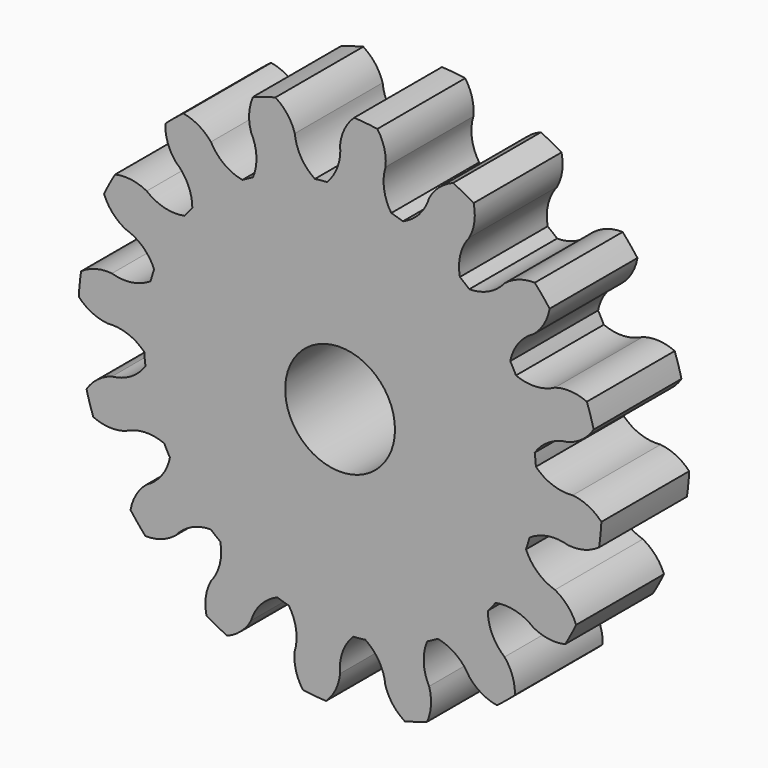
from build123d import *

# Parameters (mm, degrees)
F1_DEPTH = 6
F2_R     = 3
F3_DEPTH = 6.001


with BuildPart() as f1:
    # F0 (on Front) → F1 (new body)
    with BuildSketch(Plane.XZ):
        with BuildLine():
            ThreePointArc((2.48542, 12.466661), (2.414328, 13.351159), (2.038464, 14.154973))
            ThreePointArc((2.038464, 14.154973), (1.404844, 14.231831), (0.768425, 14.28034))
            ThreePointArc((0.768425, 14.28034), (0.242655, 13.565528), (0, 12.712))
            ThreePointArc((0, 12.712), (-0.13352, 11.62638), (-0.718152, 10.701931))
            ThreePointArc((-0.718152, 10.701931), (1.053657, 10.674122), (2.796709, 10.354974))
            ThreePointArc((2.796709, 10.354974), (2.404106, 11.375887), (2.48542, 12.466661))
        make_face()
        with BuildLine():
            ThreePointArc((3.431965, 10.16212), (3.11583, 10.263463), (2.796709, 10.354974))
            ThreePointArc((2.796709, 10.354974), (1.053657, 10.674122), (-0.718152, 10.701931))
            ThreePointArc((-0.718152, 10.701931), (-1.049006, 10.67458), (-1.378855, 10.637003))
            ThreePointArc((-1.378855, 10.637003), (-3.111357, 10.26482), (-4.758938, 9.61247))
            ThreePointArc((-4.758938, 9.61247), (-5.05414, 9.460589), (-5.344501, 9.299644))
            ThreePointArc((-5.344501, 9.299644), (-6.802696, 8.292792), (-8.075219, 7.059598))
            ThreePointArc((-8.075219, 7.059598), (-8.289827, 6.806309), (-8.496495, 6.546499))
            ThreePointArc((-8.496495, 6.546499), (-9.458386, 5.058262), (-10.16212, 3.431965))
            ThreePointArc((-10.16212, 3.431965), (-10.263463, 3.11583), (-10.354974, 2.796709))
            ThreePointArc((-10.354974, 2.796709), (-10.674122, 1.053657), (-10.701931, -0.718152))
            ThreePointArc((-10.701931, -0.718152), (-10.67458, -1.049006), (-10.637003, -1.378855))
            ThreePointArc((-10.637003, -1.378855), (-10.26482, -3.111357), (-9.61247, -4.758938))
            ThreePointArc((-9.61247, -4.758938), (-9.460589, -5.05414), (-9.299644, -5.344501))
            ThreePointArc((-9.299644, -5.344501), (-8.292792, -6.802696), (-7.059598, -8.075219))
            ThreePointArc((-7.059598, -8.075219), (-6.806309, -8.289827), (-6.546499, -8.496495))
            ThreePointArc((-6.546499, -8.496495), (-5.058262, -9.458386), (-3.431965, -10.16212))
            ThreePointArc((-3.431965, -10.16212), (-3.11583, -10.263463), (-2.796709, -10.354974))
            ThreePointArc((-2.796709, -10.354974), (-1.053657, -10.674122), (0.718152, -10.701931))
            ThreePointArc((0.718152, -10.701931), (1.049006, -10.67458), (1.378855, -10.637003))
            ThreePointArc((1.378855, -10.637003), (3.111357, -10.26482), (4.758938, -9.61247))
            ThreePointArc((4.758938, -9.61247), (5.05414, -9.460589), (5.344501, -9.299644))
            ThreePointArc((5.344501, -9.299644), (6.802696, -8.292792), (8.075219, -7.059598))
            ThreePointArc((8.075219, -7.059598), (8.289827, -6.806309), (8.496495, -6.546499))
            ThreePointArc((8.496495, -6.546499), (9.458386, -5.058262), (10.16212, -3.431965))
            ThreePointArc((10.16212, -3.431965), (10.263463, -3.11583), (10.354974, -2.796709))
            ThreePointArc((10.354974, -2.796709), (10.632839, -1.410606), (10.726, 0))
            ThreePointArc((10.726, 0), (10.719981, 0.359278), (10.701931, 0.718152))
            ThreePointArc((10.701931, 0.718152), (10.67458, 1.049006), (10.637003, 1.378855))
            ThreePointArc((10.637003, 1.378855), (10.26482, 3.111357), (9.61247, 4.758938))
            ThreePointArc((9.61247, 4.758938), (9.460589, 5.05414), (9.299644, 5.344501))
            ThreePointArc((9.299644, 5.344501), (8.292792, 6.802696), (7.059598, 8.075219))
            ThreePointArc((7.059598, 8.075219), (6.806309, 8.289827), (6.546499, 8.496495))
            ThreePointArc((6.546499, 8.496495), (5.058262, 9.458386), (3.431965, 10.16212))
        make_face()
        with BuildLine():
            ThreePointArc((4.864672, 11.744357), (4.325866, 10.79247), (3.431965, 10.16212))
            ThreePointArc((3.431965, 10.16212), (5.058262, 9.458386), (6.546499, 8.496495))
            ThreePointArc((6.546499, 8.496495), (6.574468, 9.589938), (7.067014, 10.566563))
            ThreePointArc((7.067014, 10.566563), (7.339816, 11.410939), (7.300169, 12.297404))
            ThreePointArc((7.300169, 12.297404), (6.744192, 12.610887), (6.174782, 12.899251))
            ThreePointArc((6.174782, 12.899251), (5.415487, 12.440054), (4.864672, 11.744357))
        make_face()
        with BuildLine():
            ThreePointArc((-4.758938, 9.61247), (-3.111357, 10.26482), (-1.378855, 10.637003))
            ThreePointArc((-1.378855, 10.637003), (-2.132259, 11.429961), (-2.474555, 12.468822))
            ThreePointArc((-2.474555, 12.468822), (-2.878719, 13.258786), (-3.533579, 13.857576))
            ThreePointArc((-3.533579, 13.857576), (-4.14838, 13.686108), (-4.754917, 13.487378))
            ThreePointArc((-4.754917, 13.487378), (-4.967119, 12.625774), (-4.864672, 11.744357))
            ThreePointArc((-4.864672, 11.744357), (-4.57258, 10.690278), (-4.758938, 9.61247))
        make_face()
        with BuildLine():
            ThreePointArc((8.988741, 8.988741), (8.126679, 8.315505), (7.059598, 8.075219))
            ThreePointArc((7.059598, 8.075219), (8.292792, 6.802696), (9.299644, 5.344501))
            ThreePointArc((9.299644, 5.344501), (9.743926, 6.344007), (10.572718, 7.057803))
            ThreePointArc((10.572718, 7.057803), (11.147883, 7.733507), (11.450489, 8.567666))
            ThreePointArc((11.450489, 8.567666), (11.056799, 9.07005), (10.641084, 9.554367))
            ThreePointArc((10.641084, 9.554367), (9.76386, 9.420694), (8.988741, 8.988741))
        make_face()
        with BuildLine():
            ThreePointArc((-8.075219, 7.059598), (-6.802696, 8.292792), (-5.344501, 9.299644))
            ThreePointArc((-5.344501, 9.299644), (-6.344007, 9.743926), (-7.057803, 10.572718))
            ThreePointArc((-7.057803, 10.572718), (-7.733507, 11.147883), (-8.567666, 11.450489))
            ThreePointArc((-8.567666, 11.450489), (-9.07005, 11.056799), (-9.554367, 10.641084))
            ThreePointArc((-9.554367, 10.641084), (-9.420694, 9.76386), (-8.988741, 8.988741))
            ThreePointArc((-8.988741, 8.988741), (-8.315505, 8.126679), (-8.075219, 7.059598))
        make_face()
        with BuildLine():
            ThreePointArc((11.744357, 4.864672), (10.690278, 4.57258), (9.61247, 4.758938))
            ThreePointArc((9.61247, 4.758938), (10.26482, 3.111357), (10.637003, 1.378855))
            ThreePointArc((10.637003, 1.378855), (11.429961, 2.132259), (12.468822, 2.474555))
            ThreePointArc((12.468822, 2.474555), (13.258786, 2.878719), (13.857576, 3.533579))
            ThreePointArc((13.857576, 3.533579), (13.686108, 4.14838), (13.487378, 4.754917))
            ThreePointArc((13.487378, 4.754917), (12.625774, 4.967119), (11.744357, 4.864672))
        make_face()
        with BuildLine():
            ThreePointArc((-10.16212, 3.431965), (-9.458386, 5.058262), (-8.496495, 6.546499))
            ThreePointArc((-8.496495, 6.546499), (-9.589938, 6.574468), (-10.566563, 7.067014))
            ThreePointArc((-10.566563, 7.067014), (-11.410939, 7.339816), (-12.297404, 7.300169))
            ThreePointArc((-12.297404, 7.300169), (-12.610887, 6.744192), (-12.899251, 6.174782))
            ThreePointArc((-12.899251, 6.174782), (-12.440054, 5.415487), (-11.744357, 4.864672))
            ThreePointArc((-11.744357, 4.864672), (-10.79247, 4.325866), (-10.16212, 3.431965))
        make_face()
        with BuildLine():
            ThreePointArc((12.712, 0), (11.62638, 0.13352), (10.701931, 0.718152))
            ThreePointArc((10.701931, 0.718152), (10.719981, 0.359278), (10.726, 0))
            ThreePointArc((10.726, 0), (10.632839, -1.410606), (10.354974, -2.796709))
            ThreePointArc((10.354974, -2.796709), (11.375887, -2.404106), (12.466661, -2.48542))
            ThreePointArc((12.466661, -2.48542), (13.351159, -2.414328), (14.154973, -2.038464))
            ThreePointArc((14.154973, -2.038464), (14.231831, -1.404844), (14.28034, -0.768425))
            ThreePointArc((14.28034, -0.768425), (13.565528, -0.242655), (12.712, 0))
        make_face()
        with BuildLine():
            ThreePointArc((-10.701931, -0.718152), (-10.674122, 1.053657), (-10.354974, 2.796709))
            ThreePointArc((-10.354974, 2.796709), (-11.375887, 2.404106), (-12.466661, 2.48542))
            ThreePointArc((-12.466661, 2.48542), (-13.351159, 2.414328), (-14.154973, 2.038464))
            ThreePointArc((-14.154973, 2.038464), (-14.231831, 1.404844), (-14.28034, 0.768425))
            ThreePointArc((-14.28034, 0.768425), (-13.565528, 0.242655), (-12.712, 0))
            ThreePointArc((-12.712, 0), (-11.62638, -0.13352), (-10.701931, -0.718152))
        make_face()
        with BuildLine():
            ThreePointArc((-9.61247, -4.758938), (-10.26482, -3.111357), (-10.637003, -1.378855))
            ThreePointArc((-10.637003, -1.378855), (-11.429961, -2.132259), (-12.468822, -2.474555))
            ThreePointArc((-12.468822, -2.474555), (-13.258786, -2.878719), (-13.857576, -3.533579))
            ThreePointArc((-13.857576, -3.533579), (-13.686108, -4.14838), (-13.487378, -4.754917))
            ThreePointArc((-13.487378, -4.754917), (-12.625774, -4.967119), (-11.744357, -4.864672))
            ThreePointArc((-11.744357, -4.864672), (-10.690278, -4.57258), (-9.61247, -4.758938))
        make_face()
        with BuildLine():
            ThreePointArc((11.744357, -4.864672), (10.79247, -4.325866), (10.16212, -3.431965))
            ThreePointArc((10.16212, -3.431965), (9.458386, -5.058262), (8.496495, -6.546499))
            ThreePointArc((8.496495, -6.546499), (9.589938, -6.574468), (10.566563, -7.067014))
            ThreePointArc((10.566563, -7.067014), (11.410939, -7.339816), (12.297404, -7.300169))
            ThreePointArc((12.297404, -7.300169), (12.610887, -6.744192), (12.899251, -6.174782))
            ThreePointArc((12.899251, -6.174782), (12.440054, -5.415487), (11.744357, -4.864672))
        make_face()
        with BuildLine():
            ThreePointArc((-7.059598, -8.075219), (-8.292792, -6.802696), (-9.299644, -5.344501))
            ThreePointArc((-9.299644, -5.344501), (-9.743926, -6.344007), (-10.572718, -7.057803))
            ThreePointArc((-10.572718, -7.057803), (-11.147883, -7.733507), (-11.450489, -8.567666))
            ThreePointArc((-11.450489, -8.567666), (-11.056799, -9.07005), (-10.641084, -9.554367))
            ThreePointArc((-10.641084, -9.554367), (-9.76386, -9.420694), (-8.988741, -8.988741))
            ThreePointArc((-8.988741, -8.988741), (-8.126679, -8.315505), (-7.059598, -8.075219))
        make_face()
        with BuildLine():
            ThreePointArc((8.988741, -8.988741), (8.315505, -8.126679), (8.075219, -7.059598))
            ThreePointArc((8.075219, -7.059598), (6.802696, -8.292792), (5.344501, -9.299644))
            ThreePointArc((5.344501, -9.299644), (6.344007, -9.743926), (7.057803, -10.572718))
            ThreePointArc((7.057803, -10.572718), (7.733507, -11.147883), (8.567666, -11.450489))
            ThreePointArc((8.567666, -11.450489), (9.07005, -11.056799), (9.554367, -10.641084))
            ThreePointArc((9.554367, -10.641084), (9.420694, -9.76386), (8.988741, -8.988741))
        make_face()
        with BuildLine():
            ThreePointArc((-3.431965, -10.16212), (-5.058262, -9.458386), (-6.546499, -8.496495))
            ThreePointArc((-6.546499, -8.496495), (-6.574468, -9.589938), (-7.067014, -10.566563))
            ThreePointArc((-7.067014, -10.566563), (-7.339816, -11.410939), (-7.300169, -12.297404))
            ThreePointArc((-7.300169, -12.297404), (-6.744192, -12.610887), (-6.174782, -12.899251))
            ThreePointArc((-6.174782, -12.899251), (-5.415487, -12.440054), (-4.864672, -11.744357))
            ThreePointArc((-4.864672, -11.744357), (-4.325866, -10.79247), (-3.431965, -10.16212))
        make_face()
        with BuildLine():
            ThreePointArc((4.864672, -11.744357), (4.57258, -10.690278), (4.758938, -9.61247))
            ThreePointArc((4.758938, -9.61247), (3.111357, -10.26482), (1.378855, -10.637003))
            ThreePointArc((1.378855, -10.637003), (2.132259, -11.429961), (2.474555, -12.468822))
            ThreePointArc((2.474555, -12.468822), (2.878719, -13.258786), (3.533579, -13.857576))
            ThreePointArc((3.533579, -13.857576), (4.14838, -13.686108), (4.754917, -13.487378))
            ThreePointArc((4.754917, -13.487378), (4.967119, -12.625774), (4.864672, -11.744357))
        make_face()
        with BuildLine():
            ThreePointArc((0.718152, -10.701931), (-1.053657, -10.674122), (-2.796709, -10.354974))
            ThreePointArc((-2.796709, -10.354974), (-2.404106, -11.375887), (-2.48542, -12.466661))
            ThreePointArc((-2.48542, -12.466661), (-2.414328, -13.351159), (-2.038464, -14.154973))
            ThreePointArc((-2.038464, -14.154973), (-1.404844, -14.231831), (-0.768425, -14.28034))
            ThreePointArc((-0.768425, -14.28034), (-0.242655, -13.565528), (0, -12.712))
            ThreePointArc((0, -12.712), (0.13352, -11.62638), (0.718152, -10.701931))
        make_face()
    extrude(amount=F1_DEPTH)

    # F2 (on face) → F3 (cut, through all)
    with BuildSketch(Plane.XZ.offset(6)):
        Circle(F2_R)
    extrude(amount=-F3_DEPTH, mode=Mode.SUBTRACT)


solid = f1.part
